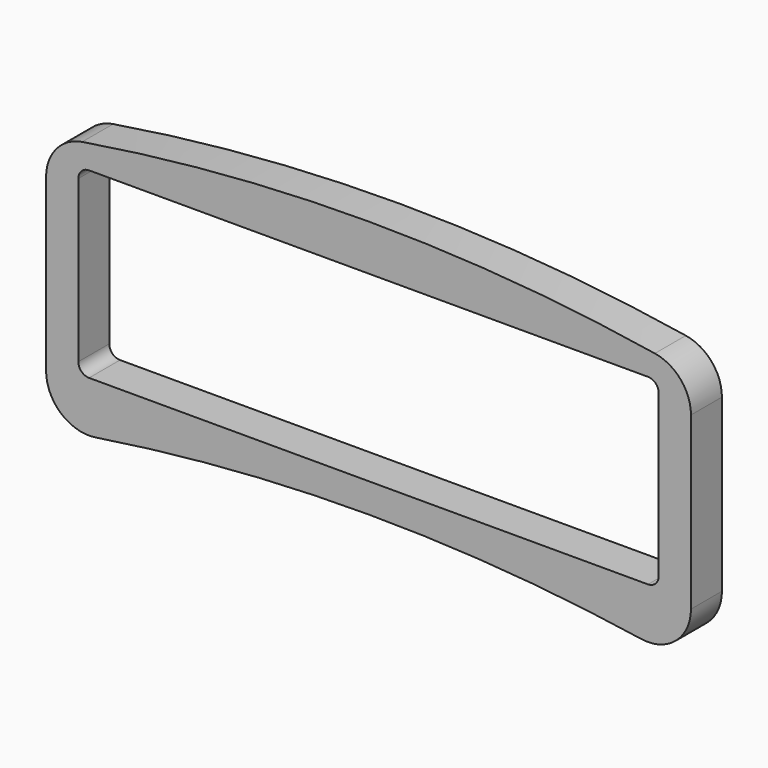
from build123d import *

# Parameters (mm, degrees)
F1_DEPTH = 18


with BuildPart() as f1:
    # F0 (on Front) → F1 (new body)
    with BuildSketch(Plane.XZ):
        with BuildLine():
            ThreePointArc((-133.204654, 55.207588), (-145.233074, 48.425689), (-150, 35.466003))
            Line((-150, 35.466003), (-150, -44.035459))
            ThreePointArc((-150, -44.035459), (-143.017649, -59.219029), (-126.945919, -63.800898))
            ThreePointArc((-126.945919, -63.800898), (0, -54.051148), (126.945919, -63.800898))
            ThreePointArc((126.945919, -63.800898), (143.017649, -59.219029), (150, -44.035459))
            Line((150, -44.035459), (150, 35.466003))
            ThreePointArc((150, 35.466003), (145.233074, 48.425689), (133.204654, 55.207588))
            ThreePointArc((133.204654, 55.207588), (0, 65.948852), (-133.204654, 55.207588))
        make_face()
        with BuildLine():
            ThreePointArc((135, -35.409401), (133.535534, -38.944935), (130, -40.409401))
            Line((130, -40.409401), (-130, -40.409401))
            ThreePointArc((-130, -40.409401), (-133.535534, -38.944935), (-135, -35.409401))
            Line((-135, -35.409401), (-135, 39.590599))
            ThreePointArc((-135, 39.590599), (-133.535534, 43.126132), (-130, 44.590599))
            Line((-130, 44.590599), (130, 44.590599))
            ThreePointArc((130, 44.590599), (133.535534, 43.126132), (135, 39.590599))
            Line((135, 39.590599), (135, -35.409401))
        make_face(mode=Mode.SUBTRACT)
    extrude(amount=F1_DEPTH)


solid = f1.part
